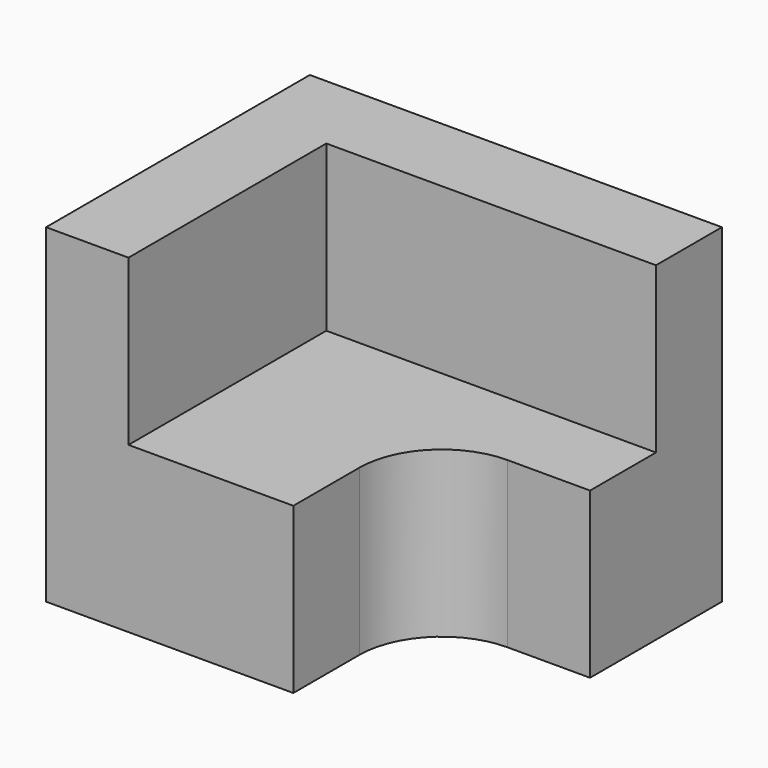
from build123d import *

# Parameters (mm, degrees)
PAD_DEPTH    = 20
PAD001_DEPTH = 20


with BuildPart() as part:
    # Sketch → Pad (new body)
    with BuildSketch(Plane.XY):
        with BuildLine():
            Line((-25, 20), (-25, -20))
            Line((-25, -20), (5, -20))
            Line((5, -20), (5, -10))
            ThreePointArc((15, 0), (7.928932, -2.928932), (5, -10))
            Line((15, 0), (25, 0))
            Line((25, 0), (25, 20))
            Line((25, 20), (-25, 20))
        make_face()
    extrude(amount=PAD_DEPTH)

    # Sketch001 (on Face9 of Pad) → Pad001 (join)
    with BuildSketch(Plane.XY.offset(20)):
        Polygon((-25, -20), (-25, 20), (25, 20), (25, 10), (-15, 10), (-15, -20), align=None)
    extrude(amount=PAD001_DEPTH)


solid = part.part
